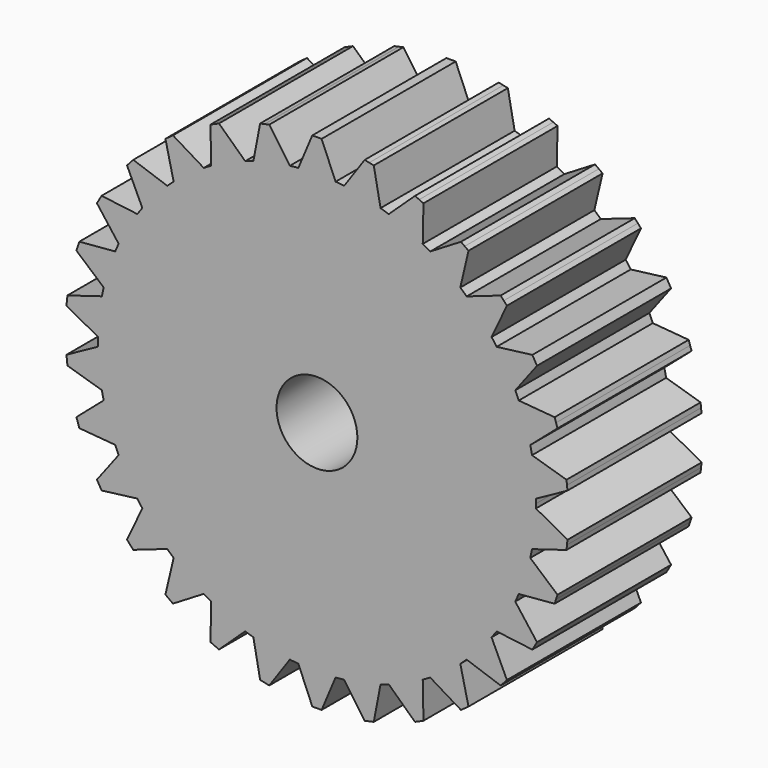
from build123d import *

# Parameters (mm, degrees)
F1_DEPTH = 18
F3_DEPTH = 9
F4_R     = 4.341284
F5_DEPTH = 25


with BuildPart() as f1:
    # F0 (on Front) → F1 (new body)
    with BuildSketch(Plane.XZ):
        with BuildLine():
            Line((0, 27), (-0.5, 27))
            Line((-0.5, 27), (-2, 23.437145))
            ThreePointArc((-2, 23.437145), (0, 23.522324), (2, 23.437145))
            Line((2, 23.437145), (0.5, 27))
            Line((0.5, 27), (0, 27))
        make_face()
        with BuildLine():
            ThreePointArc((2, 23.437145), (0, 23.522324), (-2, 23.437145))
            ThreePointArc((-2, 23.437145), (-2.458752, 23.393467), (-2.916561, 23.34081))
            ThreePointArc((-2.916561, 23.34081), (-4.890566, 23.008305), (-6.829152, 22.509163))
            ThreePointArc((-6.829152, 22.509163), (-7.268798, 22.37106), (-7.705655, 22.22437))
            ThreePointArc((-7.705655, 22.22437), (-9.567391, 21.488713), (-11.359836, 20.597424))
            ThreePointArc((-11.359836, 20.597424), (-11.761162, 20.370931), (-12.157974, 20.136619))
            ThreePointArc((-12.157974, 20.136619), (-13.826075, 19.02996), (-15.394042, 17.785478))
            ThreePointArc((-15.394042, 17.785478), (-15.739507, 17.480494), (-16.078932, 17.1688))
            ThreePointArc((-16.078932, 17.1688), (-17.480494, 15.739507), (-18.755454, 14.196221))
            ThreePointArc((-18.755454, 14.196221), (-19.02996, 13.826075), (-19.297163, 13.450623))
            ThreePointArc((-19.297163, 13.450623), (-20.370931, 11.761162), (-21.297163, 9.986522))
            ThreePointArc((-21.297163, 9.986522), (-21.488713, 9.567391), (-21.672015, 9.144589))
            ThreePointArc((-21.672015, 9.144589), (-22.37106, 7.268798), (-22.908083, 5.340363))
            ThreePointArc((-22.908083, 5.340363), (-23.008305, 4.890566), (-23.099697, 4.438893))
            ThreePointArc((-23.099697, 4.438893), (-23.393467, 2.458752), (-23.51781, 0.460805))
            ThreePointArc((-23.51781, 0.460805), (-23.522324, 0), (-23.51781, -0.460805))
            ThreePointArc((-23.51781, -0.460805), (-23.393467, -2.458752), (-23.099697, -4.438893))
            ThreePointArc((-23.099697, -4.438893), (-23.008305, -4.890566), (-22.908083, -5.340363))
            ThreePointArc((-22.908083, -5.340363), (-22.37106, -7.268798), (-21.672015, -9.144589))
            ThreePointArc((-21.672015, -9.144589), (-21.488713, -9.567391), (-21.297163, -9.986522))
            ThreePointArc((-21.297163, -9.986522), (-20.370931, -11.761162), (-19.297163, -13.450623))
            ThreePointArc((-19.297163, -13.450623), (-19.02996, -13.826075), (-18.755454, -14.196221))
            ThreePointArc((-18.755454, -14.196221), (-17.480494, -15.739507), (-16.078932, -17.1688))
            ThreePointArc((-16.078932, -17.1688), (-15.739507, -17.480494), (-15.394042, -17.785478))
            ThreePointArc((-15.394042, -17.785478), (-13.826075, -19.02996), (-12.157974, -20.136619))
            ThreePointArc((-12.157974, -20.136619), (-11.761162, -20.370931), (-11.359836, -20.597424))
            ThreePointArc((-11.359836, -20.597424), (-9.567391, -21.488713), (-7.705655, -22.22437))
            ThreePointArc((-7.705655, -22.22437), (-7.268798, -22.37106), (-6.829152, -22.509163))
            ThreePointArc((-6.829152, -22.509163), (-4.890566, -23.008305), (-2.916561, -23.34081))
            ThreePointArc((-2.916561, -23.34081), (-2.458752, -23.393467), (-2, -23.437145))
            ThreePointArc((-2, -23.437145), (0, -23.522324), (2, -23.437145))
            ThreePointArc((2, -23.437145), (2.458752, -23.393467), (2.916561, -23.34081))
            ThreePointArc((2.916561, -23.34081), (4.890566, -23.008305), (6.829152, -22.509163))
            ThreePointArc((6.829152, -22.509163), (7.268798, -22.37106), (7.705655, -22.22437))
            ThreePointArc((7.705655, -22.22437), (9.567391, -21.488713), (11.359836, -20.597424))
            ThreePointArc((11.359836, -20.597424), (11.761162, -20.370931), (12.157974, -20.136619))
            ThreePointArc((12.157974, -20.136619), (13.826075, -19.02996), (15.394042, -17.785478))
            ThreePointArc((15.394042, -17.785478), (15.739507, -17.480494), (16.078932, -17.1688))
            ThreePointArc((16.078932, -17.1688), (17.480494, -15.739507), (18.755454, -14.196221))
            ThreePointArc((18.755454, -14.196221), (19.02996, -13.826075), (19.297163, -13.450623))
            ThreePointArc((19.297163, -13.450623), (20.370931, -11.761162), (21.297163, -9.986522))
            ThreePointArc((21.297163, -9.986522), (21.488713, -9.567391), (21.672015, -9.144589))
            ThreePointArc((21.672015, -9.144589), (22.37106, -7.268798), (22.908083, -5.340363))
            ThreePointArc((22.908083, -5.340363), (23.008305, -4.890566), (23.099697, -4.438893))
            ThreePointArc((23.099697, -4.438893), (23.393467, -2.458752), (23.51781, -0.460805))
            ThreePointArc((23.51781, -0.460805), (23.521196, -0.230414), (23.522324, 0))
            ThreePointArc((23.522324, 0), (23.521196, 0.230414), (23.51781, 0.460805))
            ThreePointArc((23.51781, 0.460805), (23.393467, 2.458752), (23.099697, 4.438893))
            ThreePointArc((23.099697, 4.438893), (23.008305, 4.890566), (22.908083, 5.340363))
            ThreePointArc((22.908083, 5.340363), (22.37106, 7.268798), (21.672015, 9.144589))
            ThreePointArc((21.672015, 9.144589), (21.488713, 9.567391), (21.297163, 9.986522))
            ThreePointArc((21.297163, 9.986522), (20.370931, 11.761162), (19.297163, 13.450623))
            ThreePointArc((19.297163, 13.450623), (19.02996, 13.826075), (18.755454, 14.196221))
            ThreePointArc((18.755454, 14.196221), (17.480494, 15.739507), (16.078932, 17.1688))
            ThreePointArc((16.078932, 17.1688), (15.739507, 17.480494), (15.394042, 17.785478))
            ThreePointArc((15.394042, 17.785478), (13.826075, 19.02996), (12.157974, 20.136619))
            ThreePointArc((12.157974, 20.136619), (11.761162, 20.370931), (11.359836, 20.597424))
            ThreePointArc((11.359836, 20.597424), (9.567391, 21.488713), (7.705655, 22.22437))
            ThreePointArc((7.705655, 22.22437), (7.268798, 22.37106), (6.829152, 22.509163))
            ThreePointArc((6.829152, 22.509163), (4.890566, 23.008305), (2.916561, 23.34081))
            ThreePointArc((2.916561, 23.34081), (2.458752, 23.393467), (2, 23.437145))
        make_face()
        with BuildLine():
            ThreePointArc((-6.829152, 22.509163), (-4.890566, 23.008305), (-2.916561, 23.34081))
            Line((-2.916561, 23.34081), (-5.124542, 26.513941))
            Line((-5.124542, 26.513941), (-5.613616, 26.409985))
            Line((-5.613616, 26.409985), (-6.102689, 26.306029))
            Line((-6.102689, 26.306029), (-6.829152, 22.509163))
        make_face()
        with BuildLine():
            Line((5.124542, 26.513941), (2.916561, 23.34081))
            ThreePointArc((2.916561, 23.34081), (4.890566, 23.008305), (6.829152, 22.509163))
            Line((6.829152, 22.509163), (6.102689, 26.306029))
            Line((6.102689, 26.306029), (5.613616, 26.409985))
            Line((5.613616, 26.409985), (5.124542, 26.513941))
        make_face()
        with BuildLine():
            ThreePointArc((-11.359836, 20.597424), (-9.567391, 21.488713), (-7.705655, 22.22437))
            Line((-7.705655, 22.22437), (-10.525117, 24.869096))
            Line((-10.525117, 24.869096), (-10.981889, 24.665727))
            Line((-10.981889, 24.665727), (-11.438662, 24.462359))
            Line((-11.438662, 24.462359), (-11.359836, 20.597424))
        make_face()
        with BuildLine():
            Line((10.525117, 24.869096), (7.705655, 22.22437))
            ThreePointArc((7.705655, 22.22437), (9.567391, 21.488713), (11.359836, 20.597424))
            Line((11.359836, 20.597424), (11.438662, 24.462359))
            Line((11.438662, 24.462359), (10.981889, 24.665727))
            Line((10.981889, 24.665727), (10.525117, 24.869096))
        make_face()
        with BuildLine():
            ThreePointArc((-15.394042, 17.785478), (-13.826075, 19.02996), (-12.157974, 20.136619))
            Line((-12.157974, 20.136619), (-15.465693, 22.137351))
            Line((-15.465693, 22.137351), (-15.870202, 21.843459))
            Line((-15.870202, 21.843459), (-16.27471, 21.549566))
            Line((-16.27471, 21.549566), (-15.394042, 17.785478))
        make_face()
        with BuildLine():
            Line((15.465693, 22.137351), (12.157974, 20.136619))
            ThreePointArc((12.157974, 20.136619), (13.826075, 19.02996), (15.394042, 17.785478))
            Line((15.394042, 17.785478), (16.27471, 21.549566))
            Line((16.27471, 21.549566), (15.870202, 21.843459))
            Line((15.870202, 21.843459), (15.465693, 22.137351))
        make_face()
        with BuildLine():
            ThreePointArc((-18.755454, 14.196221), (-17.480494, 15.739507), (-16.078932, 17.1688))
            Line((-16.078932, 17.1688), (-19.730345, 18.438099))
            Line((-19.730345, 18.438099), (-20.06491, 18.066526))
            Line((-20.06491, 18.066526), (-20.399476, 17.694954))
            Line((-20.399476, 17.694954), (-18.755454, 14.196221))
        make_face()
        with BuildLine():
            Line((19.730345, 18.438099), (16.078932, 17.1688))
            ThreePointArc((16.078932, 17.1688), (17.480494, 15.739507), (18.755454, 14.196221))
            Line((18.755454, 14.196221), (20.399476, 17.694954))
            Line((20.399476, 17.694954), (20.06491, 18.066526))
            Line((20.06491, 18.066526), (19.730345, 18.438099))
        make_face()
        with BuildLine():
            ThreePointArc((-21.297163, 9.986522), (-20.370931, 11.761162), (-19.297163, 13.450623))
            Line((-19.297163, 13.450623), (-23.132686, 13.933013))
            Line((-23.132686, 13.933013), (-23.382686, 13.5))
            Line((-23.382686, 13.5), (-23.632686, 13.066987))
            Line((-23.632686, 13.066987), (-21.297163, 9.986522))
        make_face()
        with BuildLine():
            Line((23.132686, 13.933013), (19.297163, 13.450623))
            ThreePointArc((19.297163, 13.450623), (20.370931, 11.761162), (21.297163, 9.986522))
            Line((21.297163, 9.986522), (23.632686, 13.066987))
            Line((23.632686, 13.066987), (23.382686, 13.5))
            Line((23.382686, 13.5), (23.132686, 13.933013))
        make_face()
        with BuildLine():
            ThreePointArc((-22.908083, 5.340363), (-22.37106, 7.268798), (-21.672015, 9.144589))
            Line((-21.672015, 9.144589), (-25.524017, 8.818987))
            Line((-25.524017, 8.818987), (-25.678526, 8.343459))
            Line((-25.678526, 8.343459), (-25.833034, 7.867931))
            Line((-25.833034, 7.867931), (-22.908083, 5.340363))
        make_face()
        with BuildLine():
            Line((25.524017, 8.818987), (21.672015, 9.144589))
            ThreePointArc((21.672015, 9.144589), (22.37106, 7.268798), (22.908083, 5.340363))
            Line((22.908083, 5.340363), (25.833034, 7.867931))
            Line((25.833034, 7.867931), (25.678526, 8.343459))
            Line((25.678526, 8.343459), (25.524017, 8.818987))
        make_face()
        with BuildLine():
            ThreePointArc((-23.51781, 0.460805), (-23.393467, 2.458752), (-23.099697, 4.438893))
            Line((-23.099697, 4.438893), (-26.799827, 3.319529))
            Line((-26.799827, 3.319529), (-26.852091, 2.822269))
            Line((-26.852091, 2.822269), (-26.904355, 2.325008))
            Line((-26.904355, 2.325008), (-23.51781, 0.460805))
        make_face()
        with BuildLine():
            Line((26.799827, 3.319529), (23.099697, 4.438893))
            ThreePointArc((23.099697, 4.438893), (23.393467, 2.458752), (23.51781, 0.460805))
            Line((23.51781, 0.460805), (26.904355, 2.325008))
            Line((26.904355, 2.325008), (26.852091, 2.822269))
            Line((26.852091, 2.822269), (26.799827, 3.319529))
        make_face()
        with BuildLine():
            ThreePointArc((-23.099697, -4.438893), (-23.393467, -2.458752), (-23.51781, -0.460805))
            Line((-23.51781, -0.460805), (-26.904355, -2.325008))
            Line((-26.904355, -2.325008), (-26.852091, -2.822269))
            Line((-26.852091, -2.822269), (-26.799827, -3.319529))
            Line((-26.799827, -3.319529), (-23.099697, -4.438893))
        make_face()
        with BuildLine():
            Line((26.904355, -2.325008), (23.51781, -0.460805))
            ThreePointArc((23.51781, -0.460805), (23.393467, -2.458752), (23.099697, -4.438893))
            Line((23.099697, -4.438893), (26.799827, -3.319529))
            Line((26.799827, -3.319529), (26.852091, -2.822269))
            Line((26.852091, -2.822269), (26.904355, -2.325008))
        make_face()
        with BuildLine():
            ThreePointArc((-21.672015, -9.144589), (-22.37106, -7.268798), (-22.908083, -5.340363))
            Line((-22.908083, -5.340363), (-25.833034, -7.867931))
            Line((-25.833034, -7.867931), (-25.678526, -8.343459))
            Line((-25.678526, -8.343459), (-25.524017, -8.818987))
            Line((-25.524017, -8.818987), (-21.672015, -9.144589))
        make_face()
        with BuildLine():
            Line((25.833034, -7.867931), (22.908083, -5.340363))
            ThreePointArc((22.908083, -5.340363), (22.37106, -7.268798), (21.672015, -9.144589))
            Line((21.672015, -9.144589), (25.524017, -8.818987))
            Line((25.524017, -8.818987), (25.678526, -8.343459))
            Line((25.678526, -8.343459), (25.833034, -7.867931))
        make_face()
        with BuildLine():
            ThreePointArc((-19.297163, -13.450623), (-20.370931, -11.761162), (-21.297163, -9.986522))
            Line((-21.297163, -9.986522), (-23.632686, -13.066987))
            Line((-23.632686, -13.066987), (-23.382686, -13.5))
            Line((-23.382686, -13.5), (-23.132686, -13.933013))
            Line((-23.132686, -13.933013), (-19.297163, -13.450623))
        make_face()
        with BuildLine():
            Line((23.632686, -13.066987), (21.297163, -9.986522))
            ThreePointArc((21.297163, -9.986522), (20.370931, -11.761162), (19.297163, -13.450623))
            Line((19.297163, -13.450623), (23.132686, -13.933013))
            Line((23.132686, -13.933013), (23.382686, -13.5))
            Line((23.382686, -13.5), (23.632686, -13.066987))
        make_face()
        with BuildLine():
            ThreePointArc((-16.078932, -17.1688), (-17.480494, -15.739507), (-18.755454, -14.196221))
            Line((-18.755454, -14.196221), (-20.399476, -17.694954))
            Line((-20.399476, -17.694954), (-20.06491, -18.066526))
            Line((-20.06491, -18.066526), (-19.730345, -18.438099))
            Line((-19.730345, -18.438099), (-16.078932, -17.1688))
        make_face()
        with BuildLine():
            Line((20.399476, -17.694954), (18.755454, -14.196221))
            ThreePointArc((18.755454, -14.196221), (17.480494, -15.739507), (16.078932, -17.1688))
            Line((16.078932, -17.1688), (19.730345, -18.438099))
            Line((19.730345, -18.438099), (20.06491, -18.066526))
            Line((20.06491, -18.066526), (20.399476, -17.694954))
        make_face()
        with BuildLine():
            ThreePointArc((-12.157974, -20.136619), (-13.826075, -19.02996), (-15.394042, -17.785478))
            Line((-15.394042, -17.785478), (-16.27471, -21.549566))
            Line((-16.27471, -21.549566), (-15.870202, -21.843459))
            Line((-15.870202, -21.843459), (-15.465693, -22.137351))
            Line((-15.465693, -22.137351), (-12.157974, -20.136619))
        make_face()
        with BuildLine():
            Line((16.27471, -21.549566), (15.394042, -17.785478))
            ThreePointArc((15.394042, -17.785478), (13.826075, -19.02996), (12.157974, -20.136619))
            Line((12.157974, -20.136619), (15.465693, -22.137351))
            Line((15.465693, -22.137351), (15.870202, -21.843459))
            Line((15.870202, -21.843459), (16.27471, -21.549566))
        make_face()
        with BuildLine():
            ThreePointArc((-7.705655, -22.22437), (-9.567391, -21.488713), (-11.359836, -20.597424))
            Line((-11.359836, -20.597424), (-11.438662, -24.462359))
            Line((-11.438662, -24.462359), (-10.981889, -24.665727))
            Line((-10.981889, -24.665727), (-10.525117, -24.869096))
            Line((-10.525117, -24.869096), (-7.705655, -22.22437))
        make_face()
        with BuildLine():
            Line((11.438662, -24.462359), (11.359836, -20.597424))
            ThreePointArc((11.359836, -20.597424), (9.567391, -21.488713), (7.705655, -22.22437))
            Line((7.705655, -22.22437), (10.525117, -24.869096))
            Line((10.525117, -24.869096), (10.981889, -24.665727))
            Line((10.981889, -24.665727), (11.438662, -24.462359))
        make_face()
        with BuildLine():
            ThreePointArc((-2.916561, -23.34081), (-4.890566, -23.008305), (-6.829152, -22.509163))
            Line((-6.829152, -22.509163), (-6.102689, -26.306029))
            Line((-6.102689, -26.306029), (-5.613616, -26.409985))
            Line((-5.613616, -26.409985), (-5.124542, -26.513941))
            Line((-5.124542, -26.513941), (-2.916561, -23.34081))
        make_face()
        with BuildLine():
            Line((6.102689, -26.306029), (6.829152, -22.509163))
            ThreePointArc((6.829152, -22.509163), (4.890566, -23.008305), (2.916561, -23.34081))
            Line((2.916561, -23.34081), (5.124542, -26.513941))
            Line((5.124542, -26.513941), (5.613616, -26.409985))
            Line((5.613616, -26.409985), (6.102689, -26.306029))
        make_face()
        with BuildLine():
            ThreePointArc((2, -23.437145), (0, -23.522324), (-2, -23.437145))
            Line((-2, -23.437145), (-0.5, -27))
            Line((-0.5, -27), (0, -27))
            Line((0, -27), (0.5, -27))
            Line((0.5, -27), (2, -23.437145))
        make_face()
    extrude(amount=F1_DEPTH)

    # F2 (on face) → F3 (cut)
    with BuildSketch(Plane(origin=(0, 0, 0), x_dir=(-1, 0, 0), z_dir=(0, 1, 0))):
        with BuildLine():
            Line((-2, 2.236068), (-2, -2.236068))
            ThreePointArc((-2, -2.236068), (0, -3), (2, -2.236068))
            Line((2, -2.236068), (2, 2.236068))
            ThreePointArc((2, 2.236068), (0, 3), (-2, 2.236068))
        make_face()
    extrude(amount=-F3_DEPTH, mode=Mode.SUBTRACT)

    # F4 (on face) → F5 (cut)
    with BuildSketch(Plane.XZ.offset(18)):
        Circle(F4_R)
    extrude(amount=-F5_DEPTH, mode=Mode.SUBTRACT)


solid = f1.part
